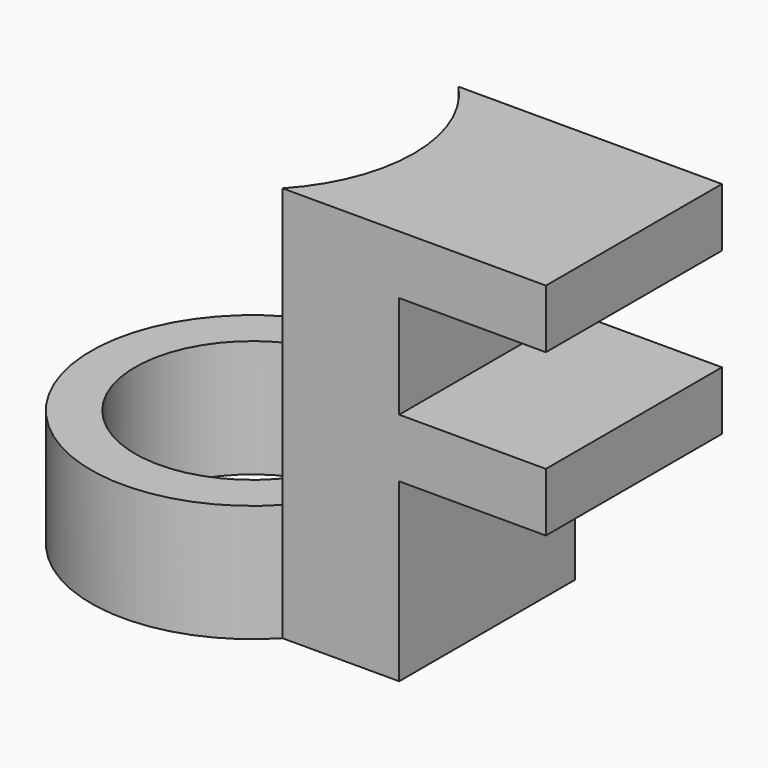
from build123d import *

# Parameters (mm, degrees)
F0_R     = 8
F1_DEPTH = 8
F2_DEPTH = 27
F3_W     = 15
F3_H     = 4
F4_DEPTH = 10
F5_W     = 15
F5_H     = 4
F6_DEPTH = 10


with BuildPart() as f1:
    # F0 (on Top) → F1 (new body)
    with BuildSketch(Plane.XY):
        Circle(F0_R)
        with BuildLine():
            ThreePointArc((8.046738, -7.5), (10.23509, -4.030253), (11, 0))
            ThreePointArc((11, 0), (10.23509, 4.030253), (8.046738, 7.5))
            ThreePointArc((8.046738, 7.5), (-11, 0), (8.046738, -7.5))
        make_face()
        Circle(F0_R, mode=Mode.SUBTRACT)
        with BuildLine():
            ThreePointArc((8.046738, 7.5), (10.23509, 4.030253), (11, 0))
            Line((11, 0), (16, 0))
            Line((16, 0), (16, 7.5))
            Line((16, 7.5), (8.046738, 7.5))
        make_face()
        with BuildLine():
            Line((16, 0), (11, 0))
            ThreePointArc((11, 0), (10.23509, -4.030253), (8.046738, -7.5))
            Line((8.046738, -7.5), (16, -7.5))
            Line((16, -7.5), (16, 0))
        make_face()
    extrude(amount=F1_DEPTH)

    # F0 (on Top) → F2 (join)
    with BuildSketch(Plane.XY):
        with BuildLine():
            ThreePointArc((8.046738, 7.5), (10.23509, 4.030253), (11, 0))
            Line((11, 0), (16, 0))
            Line((16, 0), (16, 7.5))
            Line((16, 7.5), (8.046738, 7.5))
        make_face()
        with BuildLine():
            Line((16, 0), (11, 0))
            ThreePointArc((11, 0), (10.23509, -4.030253), (8.046738, -7.5))
            Line((8.046738, -7.5), (16, -7.5))
            Line((16, -7.5), (16, 0))
        make_face()
    extrude(amount=F2_DEPTH)

    # F3 (on face) → F4 (join)
    with BuildSketch(Plane.YZ.offset(16)):
        with Locations((0, 25)):
            Rectangle(F3_W, F3_H)
    extrude(amount=F4_DEPTH)

    # F5 (on face) → F6 (join)
    with BuildSketch(Plane.YZ.offset(16)):
        with Locations((0, 14)):
            Rectangle(F5_W, F5_H)
    extrude(amount=F6_DEPTH)


solid = f1.part
